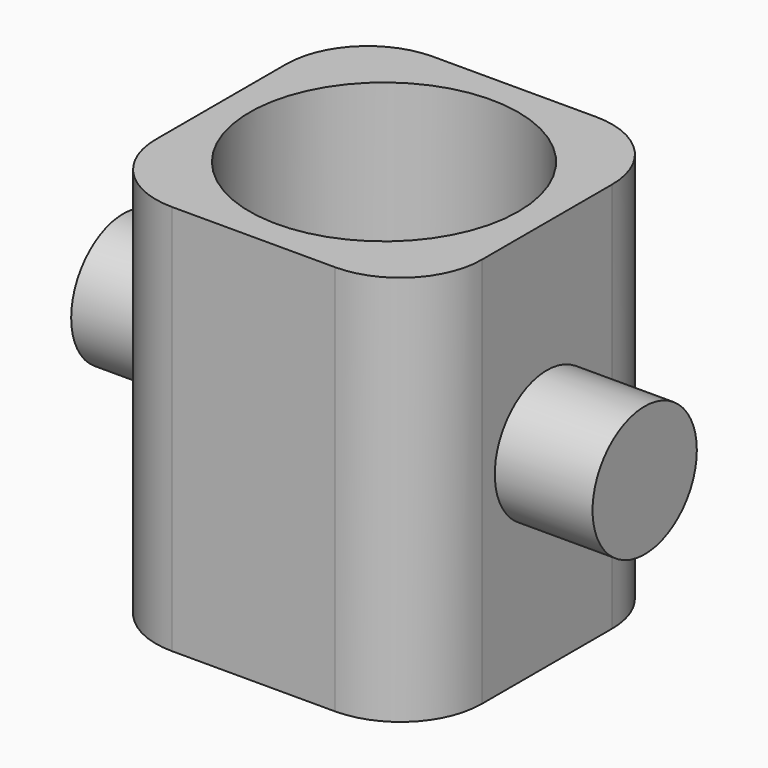
from build123d import *

# Parameters (mm, degrees)
F0_W     = 20
F0_H     = 20
F0_R     = 8.25
F1_DEPTH = 24
F2_R     = 5
F3_R     = 4
F4_DEPTH = 6
F5_R     = 4
F6_DEPTH = 6


with BuildPart() as f1:
    # F0 (on Top) → F1 (new body)
    with BuildSketch(Plane.XY):
        Rectangle(F0_W, F0_H)
        Circle(F0_R, mode=Mode.SUBTRACT)
    extrude(amount=F1_DEPTH)

    # F2
    f2_edges = [f1.edges().sort_by_distance(p)[0] for p in [
        (10, 10, 12),
        (10, -10, 12),
        (-10, 10, 12),
        (-10, -10, 12),
    ]]
    fillet(f2_edges, radius=F2_R)

    # F3 (on face) → F4 (join)
    with BuildSketch(Plane.YZ.offset(10)):
        with Locations((0, 12)):
            Circle(F3_R)
    extrude(amount=F4_DEPTH)

    # F5 (on face) → F6 (join)
    with BuildSketch(Plane(origin=(-10, 0, 0), x_dir=(0, -1, 0), z_dir=(-1, 0, 0))):
        with Locations((0, 12)):
            Circle(F5_R)
    extrude(amount=F6_DEPTH)


solid = f1.part
